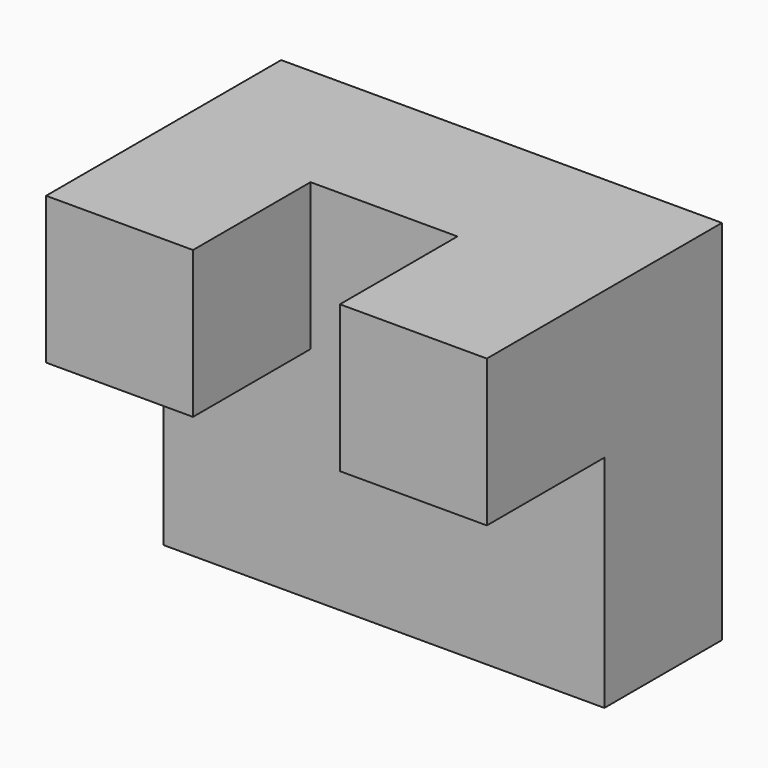
from build123d import *

# Parameters (mm, degrees)
F0_W     = 152.4
F0_H     = 127
F1_DEPTH = 50.8
F2_W     = 50.8
F2_H     = 50.8
F3_DEPTH = 50.8


with BuildPart() as f1:
    # F0 (on Front) → F1 (new body)
    with BuildSketch(Plane.XZ):
        with Locations((8.164285, 69.183598)):
            Rectangle(F0_W, F0_H)
    extrude(amount=F1_DEPTH)

    # F2 (on face) → F3 (join)
    with BuildSketch(Plane.XZ.offset(50.8)):
        with Locations((-42.635715, 107.283598)):
            Rectangle(F2_W, F2_H)
        with Locations((58.964285, 107.283598)):
            Rectangle(F2_W, F2_H)
    extrude(amount=F3_DEPTH)


solid = f1.part
